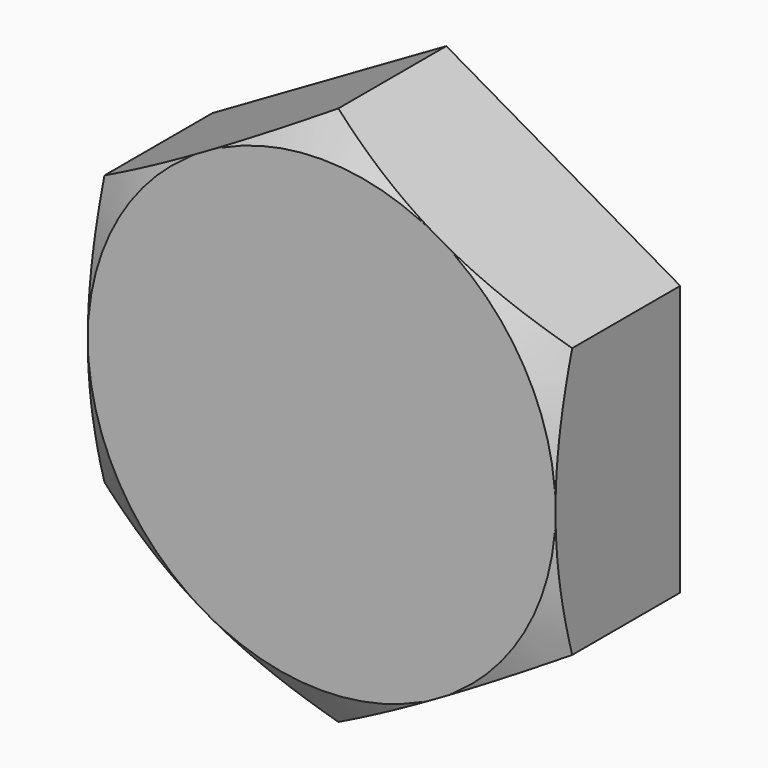
from build123d import *

# Parameters (mm, degrees)
F1_DEPTH = 4


with BuildPart() as f1:
    # F0 (on Front) → F1 (new body)
    with BuildSketch(Plane.XZ):
        Polygon((0, 6.928203), (-6, 3.464102), (-6, -3.464102), (0, -6.928203), (6, -3.464102), (6, 3.464102), align=None)
    extrude(amount=F1_DEPTH)

    # F2 (on Top) → F3 (revolve, cut)
    with BuildSketch(Plane.XY):
        Polygon((15.133317, 1.273123), (6, -4), (15.133317, -4), align=None)
    revolve(axis=Axis((0, -1.59565, 0), (0, 1, 0)), mode=Mode.SUBTRACT)


solid = f1.part
